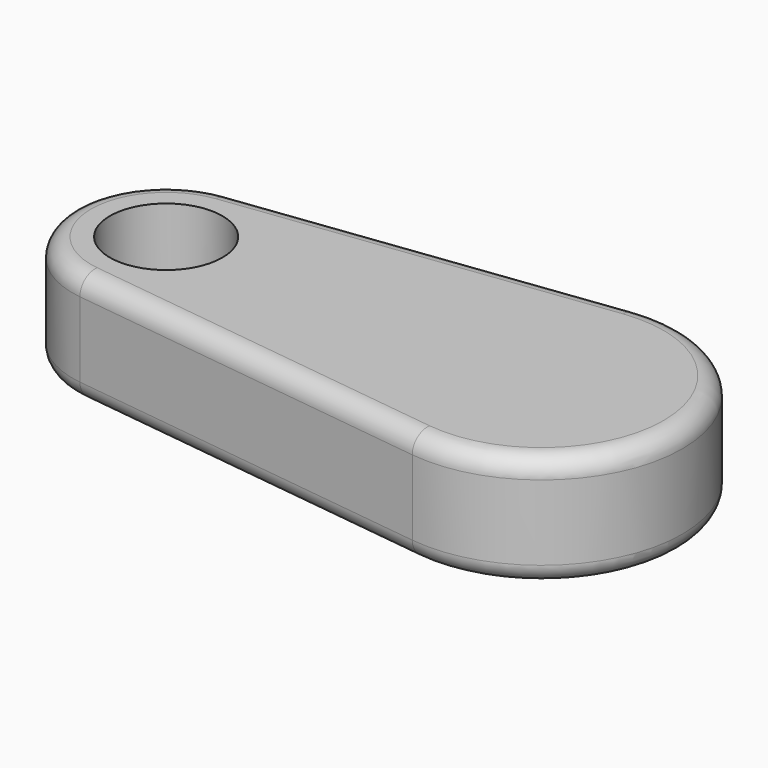
from build123d import *

# Parameters (mm, degrees)
F1_DEPTH = 12
F2_R     = 6
F3_DEPTH = 12
F4_R     = 2


with BuildPart() as f1:
    # F0 (on Top) → F1 (new body)
    with BuildSketch(Plane.XY):
        with BuildLine():
            Line((38.125, 14.882351), (-1.25, 9.921567))
            ThreePointArc((-1.25, 9.921567), (-10, 0), (-1.25, -9.921567))
            Line((-1.25, -9.921567), (38.125, -14.882351))
            ThreePointArc((38.125, -14.882351), (55, 0), (38.125, 14.882351))
        make_face()
    extrude(amount=F1_DEPTH)

    # F2 (on face) → F3 (cut, through all)
    with BuildSketch(Plane.XY.offset(12)):
        Circle(F2_R)
    extrude(amount=-F3_DEPTH, mode=Mode.SUBTRACT)

    # F4
    f4_edges = [f1.edges().sort_by_distance(p)[0] for p in [
        (18.4375, 12.401959, 12),
        (18.4375, 12.401959, 0),
    ]]
    fillet(f4_edges, radius=F4_R)


solid = f1.part
